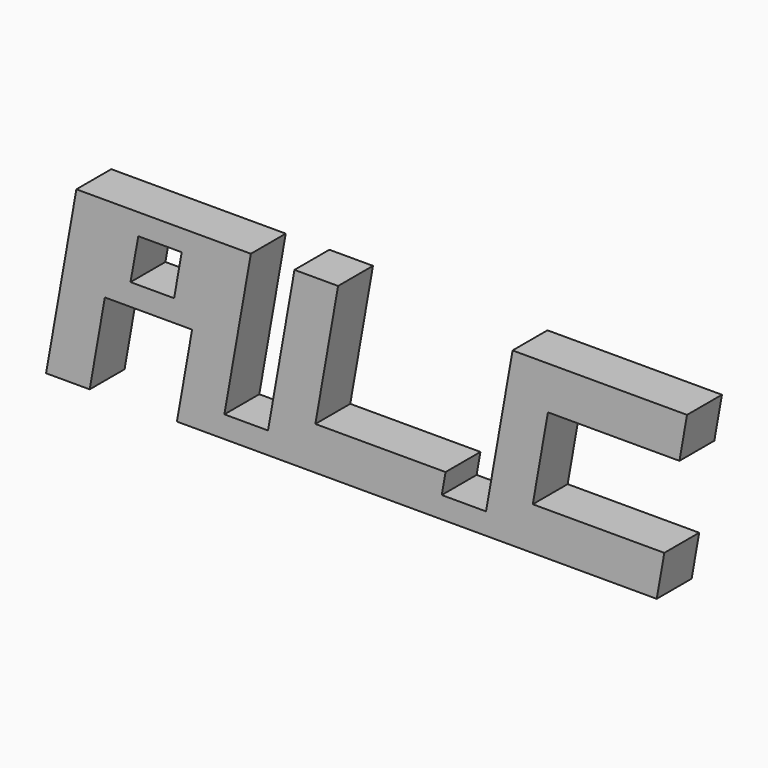
from build123d import *

# Parameters (mm, degrees)
F1_DEPTH = 6.35


with BuildPart() as f1:
    # F0 (on Front) → F1 (new body)
    with BuildSketch(Plane.XZ):
        Polygon((57.603374, 3.126765), (57.052041, 0), (63.5, 0), (64.051333, 3.126765), align=None)
        Polygon((67.910664, 25.014117), (64.602666, 6.253529), (64.051333, 3.126765), (63.5, 0), (88.9, 0), (90.002666, 6.253529), (83.554707, 6.253529), (70.854707, 6.253529), (73.060039, 18.760588), (85.760039, 18.760588), (92.207998, 18.760588), (93.310664, 25.014117), align=None)
        Polygon((4.410664, 25.014117), (0, 0), (6.35, 0), (8.555332, 12.507058), (14.905332, 12.507058), (15.46517, 15.682058), (12.29017, 15.682058), (13.426252, 21.935588), (16.567836, 21.935588), (17.110664, 25.014117), align=None)
        Polygon((42.510664, 25.014117), (36.160664, 25.014117), (32.309838, 3.175), (31.75, 0), (38.1, 0), (39.202666, 6.253529), align=None)
        Polygon((29.810664, 25.014117), (17.110664, 25.014117), (16.567836, 21.935588), (19.742836, 21.935588), (18.64017, 15.682058), (15.46517, 15.682058), (14.905332, 12.507058), (21.255332, 12.507058), (19.05, 0), (25.4, 0), (25.959838, 3.175), align=None)
        Polygon((32.309838, 3.175), (25.959838, 3.175), (25.4, 0), (31.75, 0), align=None)
        Polygon((58.154707, 6.253529), (39.202666, 6.253529), (38.1, 0), (57.052041, 0), (57.603374, 3.126765), align=None)
    extrude(amount=F1_DEPTH)


solid = f1.part
